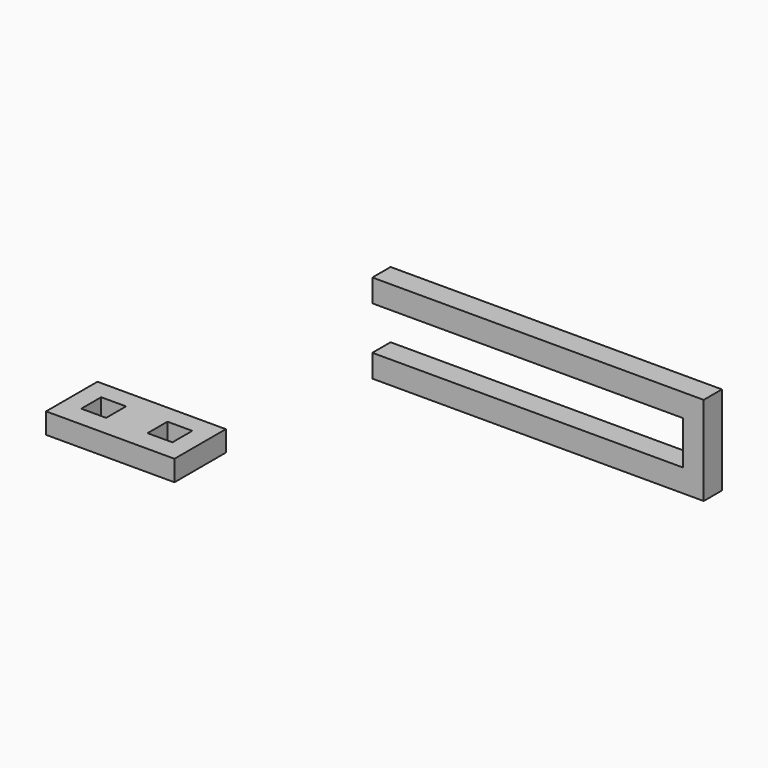
from build123d import *

# Parameters (mm, degrees)
F0_W     = 80
F0_H     = 5.5
F1_DEPTH = 5.5
F2_W     = 5
F2_H     = 5.5
F3_DEPTH = 16
F4_W     = 5.5
F4_H     = 5.5
F5_DEPTH = 75
F6_W     = 6
F6_H     = 6
F7_DEPTH = 5


with BuildPart() as f1:
    # F0 (on Top) → F1 (new body)
    with BuildSketch(Plane.XY):
        with Locations((40, 2.75)):
            Rectangle(F0_W, F0_H)
    extrude(amount=F1_DEPTH)

    # F2 (on face) → F3 (join)
    with BuildSketch(Plane(origin=(0, 0, 0), x_dir=(1, 0, 0), z_dir=(0, 0, -1))):
        with Locations((77.5, -2.75)):
            Rectangle(F2_W, F2_H)
    extrude(amount=F3_DEPTH)

    # F4 (on face) → F5 (join)
    with BuildSketch(Plane(origin=(75, 0, 0), x_dir=(0, -1, 0), z_dir=(-1, 0, 0))):
        with Locations((-2.75, -13.25)):
            Rectangle(F4_W, F4_H)
    extrude(amount=F5_DEPTH)


with BuildPart() as f7:
    # F6 (on Top) → F7 (new body)
    with BuildSketch(Plane.XY):
        Polygon((16.508894, -80.355972), (16.508894, -64.855972), (1.008894, -64.855972), (-14.491106, -64.855972), (-14.491106, -80.355972), align=None)
        with Locations((-6.991106, -72.355972)):
            Rectangle(F6_W, F6_H, mode=Mode.SUBTRACT)
        with Locations((9.008894, -72.355972)):
            Rectangle(F6_W, F6_H, mode=Mode.SUBTRACT)
    extrude(amount=F7_DEPTH)


solid = Compound([f1.part, f7.part])
